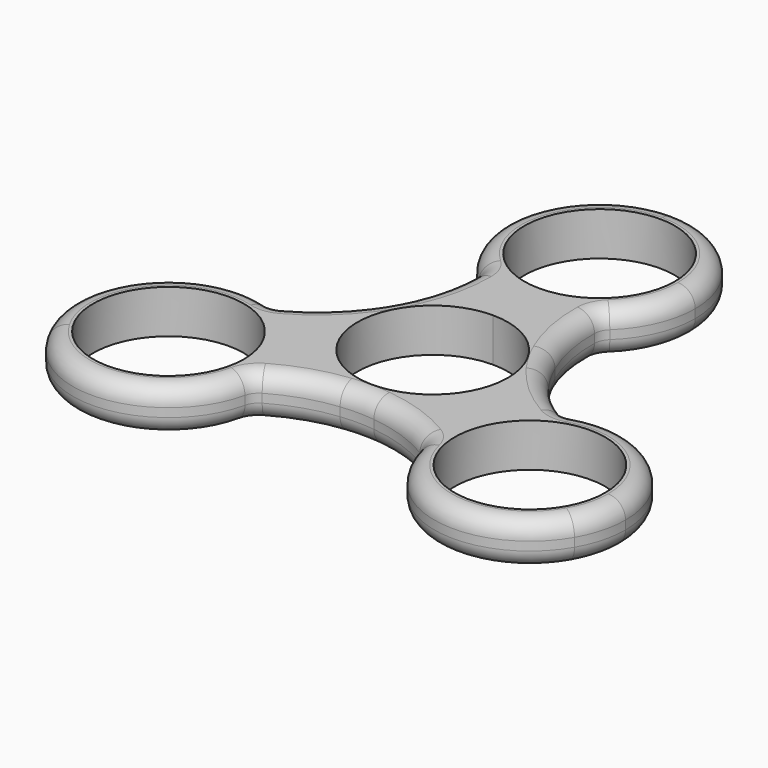
from build123d import *

# Parameters (mm, degrees)
F0_R     = 10.9982
F1_DEPTH = 6.35
F2_R     = 2.54


with BuildPart() as f1:
    # F0 (on Top) → F1 (new body)
    with BuildSketch(Plane.XY):
        with BuildLine():
            ThreePointArc((13.97, 30.48), (9.8782816978, 40.3582817686), (-1.001e-07, 44.45))
            ThreePointArc((-1.001e-07, 44.45), (-13.1905941087, 35.0809919648), (-8.6885924199, 19.5406553322))
            ThreePointArc((-8.6885924199, 19.5406553322), (-4.6009920121, 17.2894059078), (0, 16.51))
            ThreePointArc((0, 16.51), (4.7049878122, 17.3261416426), (8.8602352549, 19.6792069167))
            ThreePointArc((8.8602352549, 19.6792069167), (12.6281112307, 24.5057463441), (13.97, 30.48))
        make_face()
        with BuildLine():
            ThreePointArc((10.9982, 30.48), (7.7769018008, 22.7030981992), (0, 19.4818))
            ThreePointArc((0, 19.4818), (-7.7769018008, 38.2569018008), (10.9982, 30.48))
        make_face(mode=Mode.SUBTRACT)
        with BuildLine():
            ThreePointArc((12.6125754888, -17.5127922726), (23.8941639919, -28.984069382), (38.4948290898, -22.2250001877))
            ThreePointArc((38.4948290898, -22.2250001877), (39.8904380726, -18.8557021648), (40.3664543073, -15.24))
            ThreePointArc((40.3664543073, -15.24), (34.2546482856, -3.6896888614), (21.2670001342, -2.2457859074))
            ThreePointArc((21.2670001342, -2.2457859074), (14.2433101852, -8.3507338601), (12.6125754888, -17.5127922726))
        make_face()
        with Locations((26.3964543073, -15.24)):
            Circle(F0_R, mode=Mode.SUBTRACT)
        with BuildLine():
            ThreePointArc((-21.4728107437, -2.1664146441), (-37.0480222865, -6.2009182111), (-38.4948294602, -22.2249995463))
            ThreePointArc((-38.4948294602, -22.2249995463), (-23.7857334836, -28.9638856298), (-12.5784077143, -17.2948694248))
            ThreePointArc((-12.5784077143, -17.2948694248), (-12.4644944505, -16.2702400437), (-12.4264543073, -15.24))
            ThreePointArc((-12.4264543073, -15.24), (-14.9085432574, -7.2908617003), (-21.4728107437, -2.1664146441))
        make_face()
        with Locations((-26.3964543073, -15.24)):
            Circle(F0_R, mode=Mode.SUBTRACT)
        with BuildLine():
            ThreePointArc((0, 13.97), (-5.856417794, 12.6831885038), (-10.6339371279, 9.0598168392))
            ThreePointArc((-10.6339371279, 9.0598168392), (-11.7632136635, 6.8551872307), (-13.1246525512, 4.7858536762))
            ThreePointArc((-13.1246525512, 4.7858536762), (-12.126574558, -6.9359274426), (-2.5290629724, -13.7391681146))
            ThreePointArc((-2.5290629724, -13.7391681146), (-0.0551594577, -13.6148354781), (2.4176554132, -13.7592093633))
            ThreePointArc((2.4176554132, -13.7592093633), (10.6989613076, -8.9829353186), (13.97, 0))
            ThreePointArc((13.97, 0), (13.7667717966, 2.3742144594), (13.1630001003, 4.6793512754))
            ThreePointArc((13.1630001003, 4.6793512754), (11.8183731212, 6.7596482474), (10.706997138, 8.9733556871))
            ThreePointArc((10.706997138, 8.9733556871), (5.9077542709, 12.6593577829), (0, 13.97))
        make_face()
        with BuildLine():
            ThreePointArc((10.9982, 0), (-7.7769018008, -7.7769018008), (0, 10.9982))
            ThreePointArc((0, 10.9982), (7.7769018008, 7.7769018008), (10.9982, 0))
        make_face(mode=Mode.SUBTRACT)
        with BuildLine():
            ThreePointArc((0, 16.51), (-4.6009920121, 17.2894059078), (-8.6885924199, 19.5406553322))
            ThreePointArc((-8.6885924199, 19.5406553322), (-9.0410842982, 14.185124608), (-10.6339371279, 9.0598168392))
            ThreePointArc((-10.6339371279, 9.0598168392), (-5.856417794, 12.6831885038), (0, 13.97))
            Line((0, 13.97), (0, 16.51))
        make_face()
        with BuildLine():
            ThreePointArc((10.706997138, 8.9733556871), (9.1376356479, 14.2148495037), (8.8602352549, 19.6792069167))
            ThreePointArc((8.8602352549, 19.6792069167), (4.7049878122, 17.3261416426), (0, 16.51))
            Line((0, 16.51), (0, 13.97))
            ThreePointArc((0, 13.97), (5.9077542709, 12.6593577829), (10.706997138, 8.9733556871))
        make_face()
        with BuildLine():
            ThreePointArc((2.4176554132, -13.7592093633), (7.7416029572, -15.0208493535), (12.6125754888, -17.5127922726))
            ThreePointArc((12.6125754888, -17.5127922726), (14.2433101852, -8.3507338601), (21.2670001342, -2.2457859074))
            ThreePointArc((21.2670001342, -2.2457859074), (16.8052204155, 0.737246376), (13.1630001003, 4.6793512754))
            ThreePointArc((13.1630001003, 4.6793512754), (13.7667717966, 2.3742144594), (13.97, 0))
            ThreePointArc((13.97, 0), (10.6989613076, -8.9829353186), (2.4176554132, -13.7592093633))
        make_face()
        with BuildLine():
            ThreePointArc((-13.1246525512, 4.7858536762), (-16.8792386051, 0.8059998498), (-21.4728107437, -2.1664146441))
            ThreePointArc((-21.4728107437, -2.1664146441), (-14.9085432574, -7.2908617003), (-12.4264543073, -15.24))
            ThreePointArc((-12.4264543073, -15.24), (-12.4644944505, -16.2702400437), (-12.5784077143, -17.2948694248))
            ThreePointArc((-12.5784077143, -17.2948694248), (-7.7641361173, -14.922370984), (-2.5290629724, -13.7391681146))
            ThreePointArc((-2.5290629724, -13.7391681146), (-12.126574558, -6.9359274426), (-13.1246525512, 4.7858536762))
        make_face()
    extrude(amount=F1_DEPTH)

    # F2
    f2_edges = [f1.edges().sort_by_distance(p)[0] for p in [
        (11.766443, 6.850928, 6.35),
        (-11.816299, 6.764575, 6.35),
        (0.049856, -13.615502, 6.35),
        (-11.816299, 6.764575, 0),
        (11.766443, 6.850928, 0),
        (0.049856, -13.615502, 0),
        (8.860235, 19.679207, 3.175),
        (-8.688592, 19.540655, 3.175),
        (-0.110293, 44.449565, 0),
        (-0.110293, 44.449565, 6.35),
        (12.612575, -17.512792, 3.175),
        (21.267, -2.245786, 3.175),
        (38.549598, -22.129266, 0),
        (38.549598, -22.129266, 6.35),
        (-21.472811, -2.166415, 3.175),
        (-12.578408, -17.294869, 3.175),
        (-38.439306, -22.320298, 0),
        (-38.439306, -22.320298, 6.35),
    ]]
    fillet(f2_edges, radius=F2_R)


solid = f1.part
